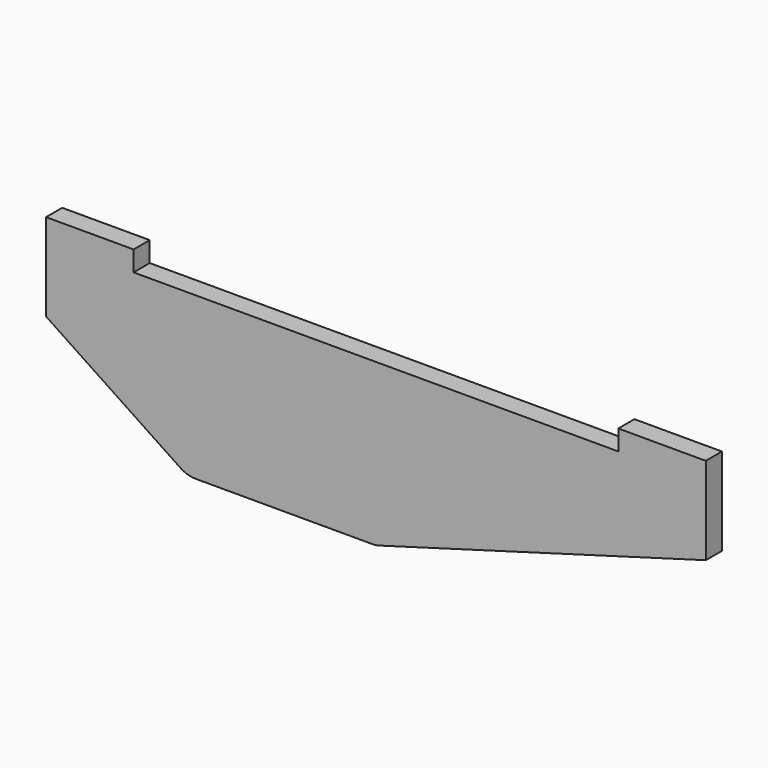
from build123d import *

# Parameters (mm, degrees)
F1_DEPTH = 4.7625


with BuildPart() as f1:
    # F0 (on Front) → F1 (new body)
    with BuildSketch(Plane.XZ):
        with BuildLine():
            Line((-44.46612, 20.617304), (-65.10362, 20.617304))
            Line((-65.10362, 20.617304), (-65.10362, -0.020196))
            Line((-65.10362, -0.020196), (-33.365841, -21.178716))
            ThreePointArc((-33.365841, -21.178716), (-31.683624, -21.972731), (-29.843495, -22.245196))
            Line((-29.843495, -22.245196), (11.794531, -22.245196))
            ThreePointArc((11.794531, -22.245196), (12.675284, -22.183819), (13.53901, -22.000873))
            Line((13.53901, -22.000873), (90.47138, -0.020196))
            Line((90.47138, -0.020196), (90.47138, 20.617304))
            Line((90.47138, 20.617304), (69.83388, 20.617304))
            Line((69.83388, 20.617304), (69.83388, 15.854804))
            Line((69.83388, 15.854804), (-44.46612, 15.854804))
            Line((-44.46612, 15.854804), (-44.46612, 20.617304))
        make_face()
    extrude(amount=F1_DEPTH)


solid = f1.part
